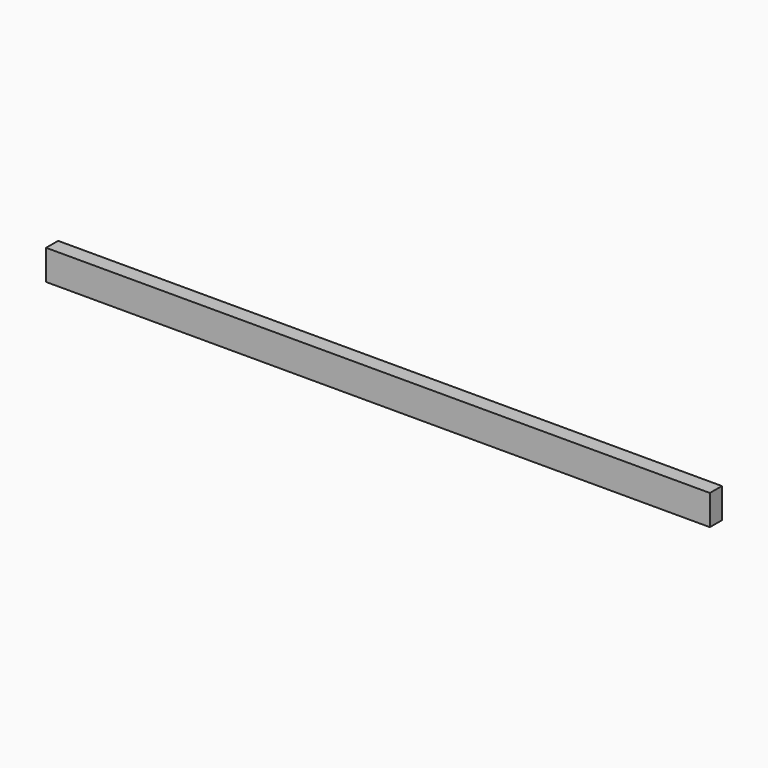
from build123d import *

# Parameters (mm, degrees)
SKETCH_W  = 839.65
SKETCH_H  = 38.1
PAD_DEPTH = 19.05


with BuildPart() as part:
    # Sketch → Pad (new body)
    with BuildSketch(Plane.XZ):
        with Locations((419.825, 19.05)):
            Rectangle(SKETCH_W, SKETCH_H)
    extrude(amount=PAD_DEPTH)


solid = part.part
